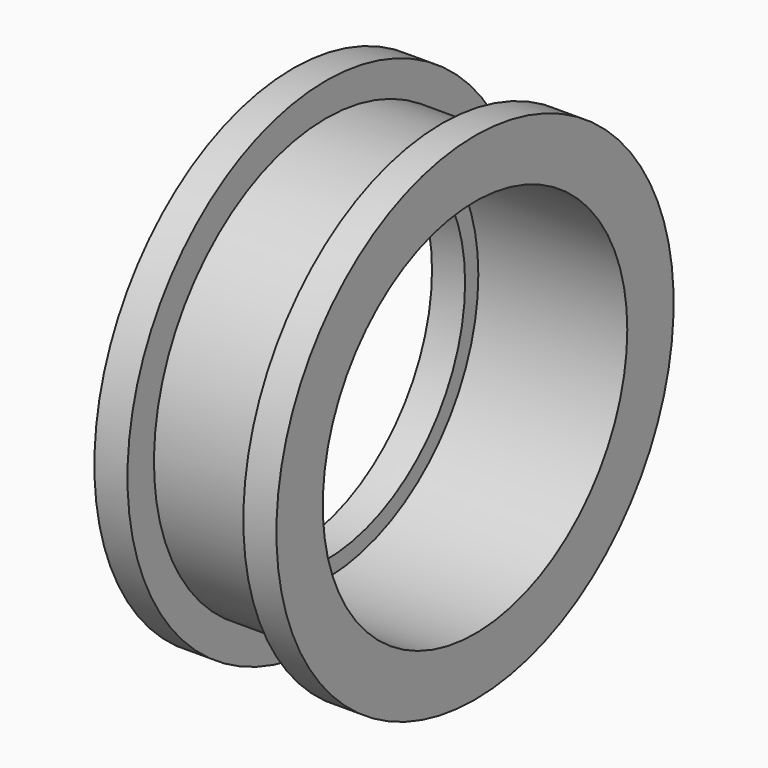
from build123d import *

# Parameters (mm, degrees)
F2_R     = 10.5
F3_DEPTH = 25
F2_R_2   = 11.5
F4_DEPTH = 9


with BuildPart() as f1:
    # F0 (on Front) → F1 (revolve)
    with BuildSketch(Plane.XZ):
        Polygon((-5.5, 15), (-5.5, 0), (5.5, 0), (5.5, 15), (3.5, 15), (3.5, 13), (-3.5, 13), (-3.5, 15), align=None)
    revolve(axis=Axis((0, 0, 0), (1, 0, 0)))

    # F2 (on face) → F3 (cut)
    with BuildSketch(Plane.YZ.offset(5.5)):
        Circle(F2_R)
    extrude(amount=-F3_DEPTH, mode=Mode.SUBTRACT)

    # F2 (on face) → F4 (cut)
    with BuildSketch(Plane.YZ.offset(5.5)):
        Circle(F2_R_2)
        Circle(F2_R, mode=Mode.SUBTRACT)
    extrude(amount=-F4_DEPTH, mode=Mode.SUBTRACT)


solid = f1.part
